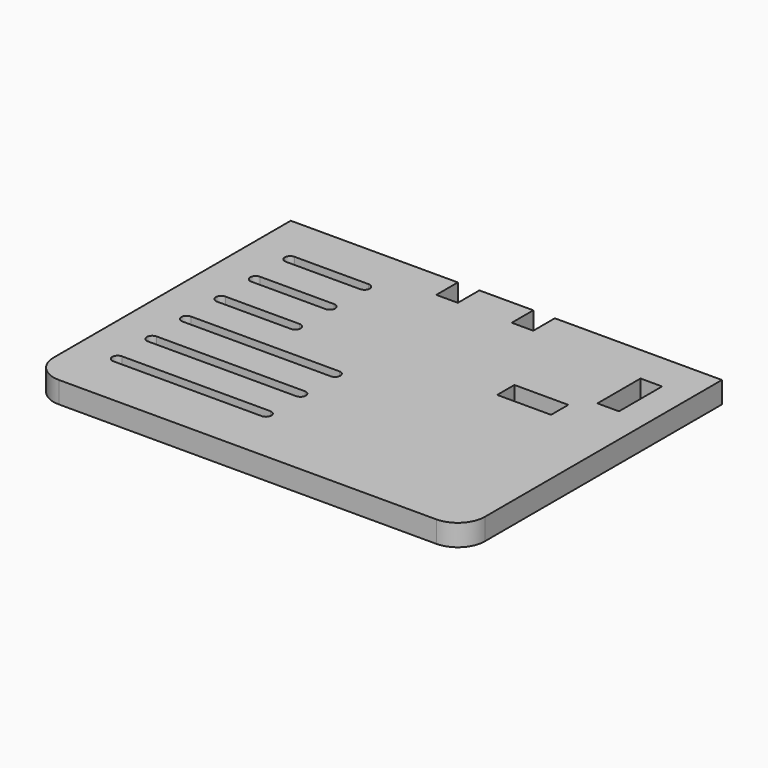
from build123d import *

# Parameters (mm, degrees)
F0_W     = 20
F0_H     = 8
F0_W_2   = 8
F0_H_2   = 20
F1_DEPTH = 8
F2_R     = 10


with BuildPart() as f1:
    # F0 (on Top) → F1 (new body)
    with BuildSketch(Plane.XY):
        Polygon((16.4421471655, -13.5372191966), (-45.5578528345, -13.5372191966), (-45.5578528345, -133.5372191966), (114.4421471655, -133.5372191966), (114.4421471655, -13.5372191966), (52.4421471655, -13.5372191966), (52.4421471655, -23.5372191966), (44.4421471655, -23.5372191966), (44.4421471655, -13.5372191966), (24.4421471655, -13.5372191966), (24.4421471655, -23.5372191966), (16.4421471655, -23.5372191966), align=None)
        with BuildLine():
            ThreePointArc((-30.5578528345, -114.5372191966), (-32.5578528345, -112.5372191966), (-30.5578528345, -110.5372191966))
            Line((-30.5578528345, -110.5372191966), (24.4421471655, -110.5372191966))
            ThreePointArc((24.4421471655, -110.5372191966), (26.4421471655, -112.5372191966), (24.4421471655, -114.5372191966))
            Line((24.4421471655, -114.5372191966), (-30.5578528345, -114.5372191966))
        make_face(mode=Mode.SUBTRACT)
        with BuildLine():
            ThreePointArc((-30.5578528345, -98.5372191966), (-32.5578528345, -96.5372191966), (-30.5578528345, -94.5372191966))
            Line((-30.5578528345, -94.5372191966), (24.4421471655, -94.5372191966))
            ThreePointArc((24.4421471655, -94.5372191966), (26.4421471655, -96.5372191966), (24.4421471655, -98.5372191966))
            Line((24.4421471655, -98.5372191966), (-30.5578528345, -98.5372191966))
        make_face(mode=Mode.SUBTRACT)
        with BuildLine():
            Line((24.4421471655, -82.5372191966), (-30.5578528345, -82.5372191966))
            ThreePointArc((-30.5578528345, -82.5372191966), (-32.5578528345, -80.5372191966), (-30.5578528345, -78.5372191966))
            Line((-30.5578528345, -78.5372191966), (24.4421471655, -78.5372191966))
            ThreePointArc((24.4421471655, -78.5372191966), (26.4421471655, -80.5372191966), (24.4421471655, -82.5372191966))
        make_face(mode=Mode.SUBTRACT)
        with BuildLine():
            Line((-3.0578528345, -66.5372191966), (-30.5578528345, -66.5372191966))
            ThreePointArc((-30.5578528345, -66.5372191966), (-32.5578528345, -64.5372191966), (-30.5578528345, -62.5372191966))
            Line((-30.5578528345, -62.5372191966), (-3.0578528345, -62.5372191966))
            ThreePointArc((-3.0578528345, -62.5372191966), (-1.0578528345, -64.5372191966), (-3.0578528345, -66.5372191966))
        make_face(mode=Mode.SUBTRACT)
        with BuildLine():
            Line((-3.0578528345, -50.5372191966), (-30.5578528345, -50.5372191966))
            ThreePointArc((-30.5578528345, -50.5372191966), (-32.5578528345, -48.5372191966), (-30.5578528345, -46.5372191966))
            Line((-30.5578528345, -46.5372191966), (-3.0578528345, -46.5372191966))
            ThreePointArc((-3.0578528345, -46.5372191966), (-1.0578528345, -48.5372191966), (-3.0578528345, -50.5372191966))
        make_face(mode=Mode.SUBTRACT)
        with BuildLine():
            Line((-3.0578528345, -34.5372191966), (-30.5578528345, -34.5372191966))
            ThreePointArc((-30.5578528345, -34.5372191966), (-32.5578528345, -32.5372191966), (-30.5578528345, -30.5372191966))
            Line((-30.5578528345, -30.5372191966), (-3.0578528345, -30.5372191966))
            ThreePointArc((-3.0578528345, -30.5372191966), (-1.0578528345, -32.5372191966), (-3.0578528345, -34.5372191966))
        make_face(mode=Mode.SUBTRACT)
        with Locations((79.4421471655, -57.5372191966)):
            Rectangle(F0_W, F0_H, mode=Mode.SUBTRACT)
        with Locations((99.4421471655, -37.5372191966)):
            Rectangle(F0_W_2, F0_H_2, mode=Mode.SUBTRACT)
    extrude(amount=F1_DEPTH)

    # F2
    f2_edges = [f1.edges().sort_by_distance(p)[0] for p in [
        (-45.557853, -133.537219, 4),
        (114.442147, -133.537219, 4),
    ]]
    fillet(f2_edges, radius=F2_R)


solid = f1.part
